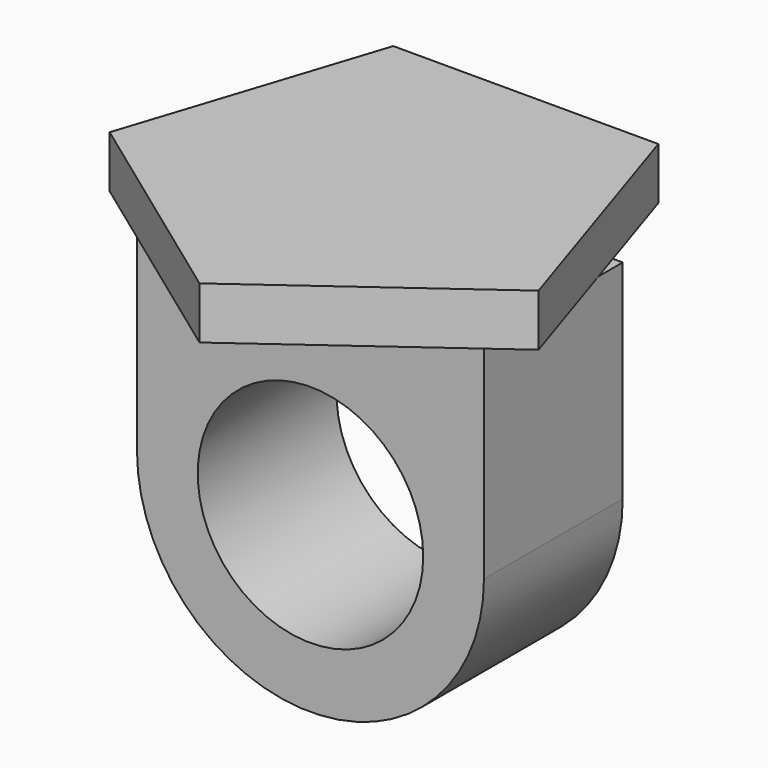
from build123d import *

# Parameters (mm, degrees)
F0_W     = 25.4
F0_H     = 12.7
F1_DEPTH = 15.24
F2_R     = 12.7
F3_DEPTH = 12.7
F4_R     = 8.255
F5_DEPTH = 25.4
F7_DEPTH = 3.81


with BuildPart() as f1:
    # F0 (on Top) → F1 (new body)
    with BuildSketch(Plane.XY):
        Rectangle(F0_W, F0_H)
    extrude(amount=F1_DEPTH)

    # F2 (on face) → F3 (join)
    with BuildSketch(Plane.XZ.offset(6.35)):
        Circle(F2_R)
    extrude(amount=-F3_DEPTH)

    # F4 (on face) → F5 (cut)
    with BuildSketch(Plane.XZ.offset(6.35)):
        Circle(F4_R)
    extrude(amount=-F5_DEPTH, mode=Mode.SUBTRACT)

    # F6 (on face) → F7 (join)
    with BuildSketch(Plane.XY.offset(15.24)):
        Polygon((15.698063, -5.10061), (9.701937, 13.35357), (-9.701937, 13.35357), (-15.698063, -5.10061), (0, -16.505921), align=None)
    extrude(amount=F7_DEPTH)


solid = f1.part
